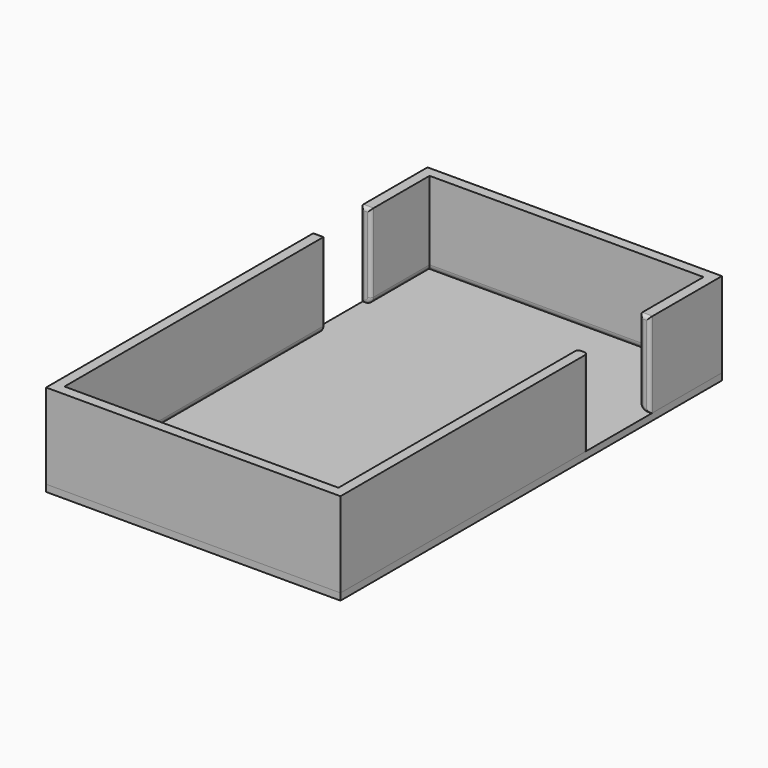
from build123d import *

# Parameters (mm, degrees)
F0_W     = 86.4480845821
F0_H     = 140
F1_DEPTH = 2
F3_DEPTH = 25
F4_R     = 2
F4_2_R   = 2
F5_R     = 1
F5_2_R   = 1


with BuildPart() as f1:
    # F0 (on Top) → F1 (new body)
    with BuildSketch(Plane.XY):
        Rectangle(F0_W, F0_H)
    extrude(amount=F1_DEPTH)


with BuildPart() as f3:
    # F2 (on face) → F3 (new body)
    with BuildSketch(Plane.XY.offset(2)):
        Polygon((-43.224042291, -70), (43.224042291, -70), (43.224042291, 20.8081062883), (40.224042291, 20.8081062883), (40.224042291, -67), (-40.224042291, -67), (-40.224042291, 28.7592317909), (-43.224042291, 28.7592317909), align=None)
    extrude(amount=F3_DEPTH)

    # F4#2
    f4_2_edges = [f3.edges().sort_by_distance(p)[0] for p in [
        (40.224042, -23.095947, 2),
        (-40.224042, -19.120384, 2),
    ]]
    fillet(f4_2_edges, radius=F4_2_R)

    # F5
    f5_edges = [f3.edges().sort_by_distance(p)[0] for p in [
        (-40.224042, 28.759232, 15.5),
        (40.224042, 20.808106, 15.5),
        (43.224042, 20.808106, 14.5),
        (-40.809829, 28.759232, 2.585786),
        (-41.724042, 28.759232, 27),
        (-42.724042, 28.759232, 2),
        (-43.224042, 28.759232, 14.5),
        (-40.224042, -19.120384, 4),
        (40.224042, -23.095947, 4),
    ]]
    fillet(f5_edges, radius=F5_R)


with BuildPart() as f3b:
    # F2 (on face) → F3, piece 2 (new body)
    with BuildSketch(Plane.XY.offset(2)):
        Polygon((40.224042291, 43.5585826635), (43.224042291, 43.5585826635), (43.224042291, 70), (-43.224042291, 70), (-43.224042291, 45.5040372908), (-40.224042291, 45.5040372908), (-40.224042291, 67), (40.224042291, 67), align=None)
    extrude(amount=F3_DEPTH)

    # F4
    f4_edges = [f3b.edges().sort_by_distance(p)[0] for p in [
        (0, 67, 2),
        (-40.224042, 56.252019, 2),
        (40.224042, 55.279291, 2),
    ]]
    fillet(f4_edges, radius=F4_R)

    # F5#2
    f5_2_edges = [f3b.edges().sort_by_distance(p)[0] for p in [
        (40.224042, 43.558583, 15.5),
        (40.809829, 43.558583, 2.585786),
        (41.724042, 43.558583, 27),
        (42.724042, 43.558583, 2),
        (43.224042, 43.558583, 14.5),
        (-40.224042, 45.504037, 15.5),
        (-40.809829, 45.504037, 2.585786),
        (-41.724042, 45.504037, 27),
        (-42.724042, 45.504037, 2),
        (-43.224042, 45.504037, 14.5),
    ]]
    fillet(f5_2_edges, radius=F5_2_R)


solid = Compound([f1.part, f3.part, f3b.part])
